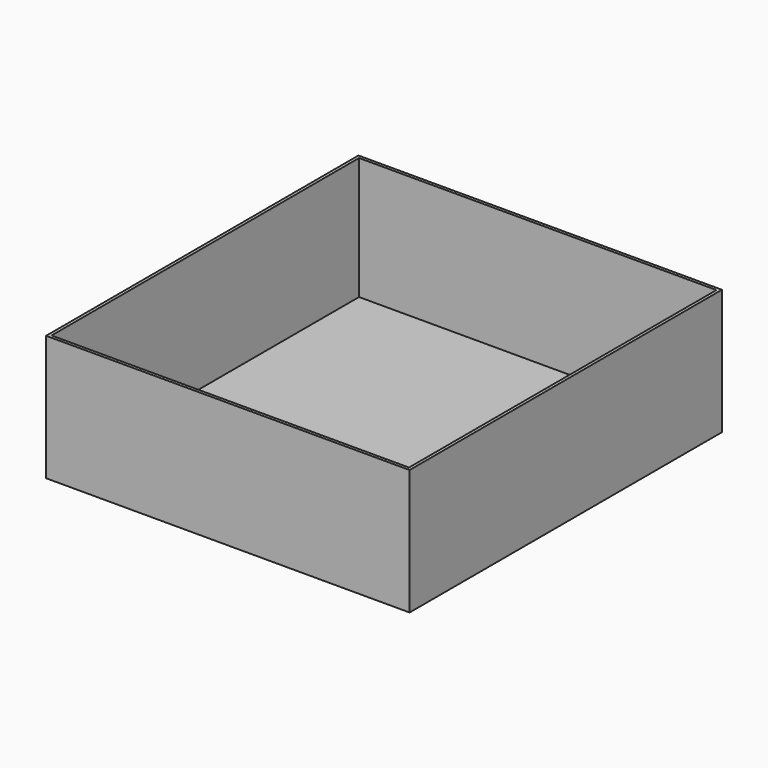
from build123d import *

# Parameters (mm, degrees)
F0_W     = 239.2428293824
F0_H     = 256.9792084396
F2_DEPTH = 82.55
F3_T     = -2
F4_DEPTH = 2


with BuildPart() as f2:
    # F0 (on Top) → F2 (new body)
    with BuildSketch(Plane.XY):
        with Locations((-25.7889069617, 128.4896042198)):
            Rectangle(F0_W, F0_H)
    extrude(amount=F2_DEPTH)

    # F3
    f3_openings = [f2.faces().sort_by_distance(p)[0] for p in [
        (-25.788907, 128.489604, 82.55),
    ]]
    offset(amount=F3_T, openings=f3_openings)

    # F0 (on Top) → F4 (join)
    with BuildSketch(Plane.XY):
        with Locations((-25.7889069617, 128.4896042198)):
            Rectangle(F0_W, F0_H)
    extrude(amount=F4_DEPTH)


solid = f2.part
